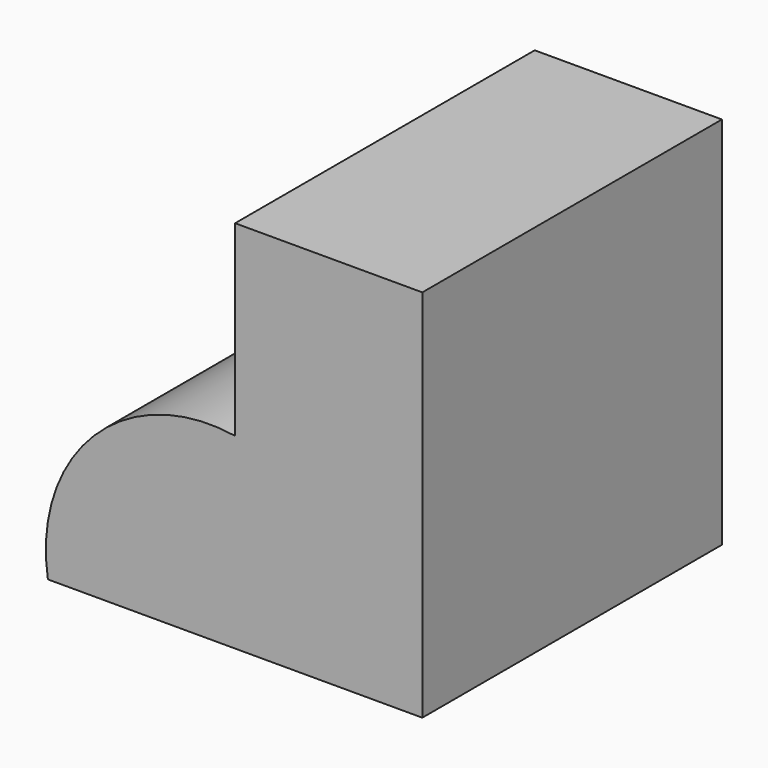
from build123d import *

# Parameters (mm, degrees)
F0_W     = 25.3969691694
F0_H     = 25.3969673067
F1_DEPTH = 50.8


with BuildPart() as f1:
    # F0 (on Front) → F1 (new body)
    with BuildSketch(Plane.XZ):
        with BuildLine():
            Line((0, -25.3969673067), (0, 0))
            Line((0, 0), (-25.3969691694, 0))
            ThreePointArc((-25.3969691694, 0), (-44.5650245733, -6.2289123596), (-50.7939383388, -25.3969673067))
            Line((-50.7939383388, -25.3969673067), (0, -25.3969673067))
        make_face()
        with Locations((-12.6984845847, 12.6984836534)):
            Rectangle(F0_W, F0_H)
    extrude(amount=F1_DEPTH)


solid = f1.part
